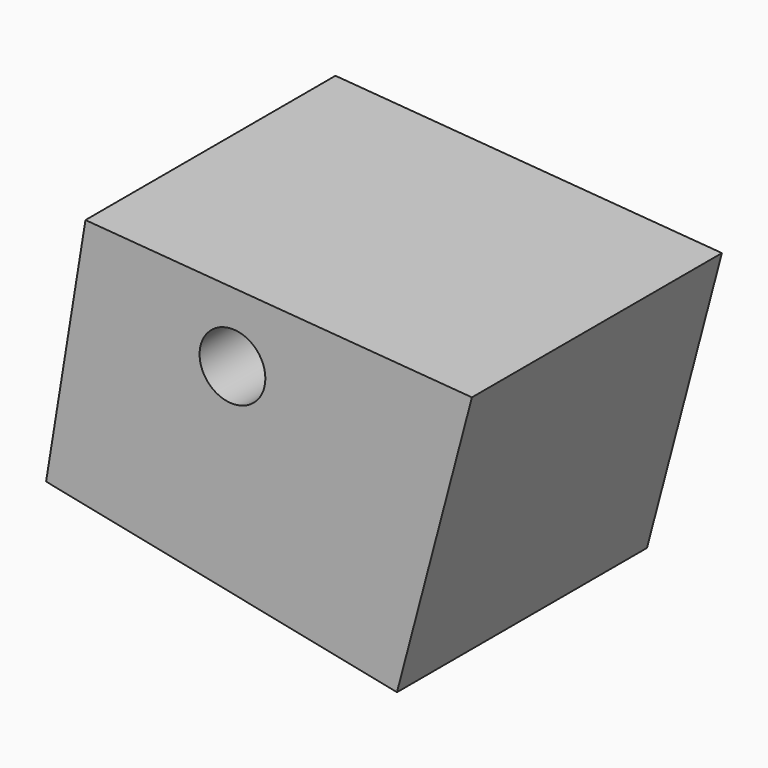
from build123d import *

# Parameters (mm, degrees)
F0_R      = 7.5
F1_DEPTH  = 10
F4_DEPTH  = 1.5
F6_DEPTH  = 2
F8_DEPTH  = 9.8
F10_DEPTH = 25


with BuildPart() as f1:
    # F0 (on Front) → F1 (new body)
    with BuildSketch(Plane.XZ):
        Circle(F0_R)
        with BuildLine():
            ThreePointArc((-0.1283063228, 4.3981288621), (0, 4.4), (0.1283063228, 4.3981288621))
            ThreePointArc((0.1283063228, 4.3981288621), (0.2239147081, 4.4290007991), (0.2785931947, 4.5132878262))
            Line((0.2785931947, 4.5132878262), (0.4192344048, 5.1033676473))
            ThreePointArc((0.4192344048, 5.1033676473), (0.478862258, 5.1912888485), (0.5817691739, 5.2176665885))
            ThreePointArc((0.5817691739, 5.2176665885), (1.0242241906, 5.1491227221), (1.4592299266, 5.0431287929))
            ThreePointArc((1.4592299266, 5.0431287929), (1.5442091959, 4.979378167), (1.565652162, 4.8753309772))
            Line((1.565652162, 4.8753309772), (1.4697739261, 4.276347247))
            ThreePointArc((1.4697739261, 4.276347247), (1.4880350119, 4.1775516368), (1.5645514634, 4.112441941))
            ThreePointArc((1.5645514634, 4.112441941), (1.6838071024, 4.065069943), (1.8016306345, 4.014240533))
            ThreePointArc((1.8016306345, 4.014240533), (1.9017754436, 4.0061747387), (1.9845470271, 4.063121247))
            Line((1.9845470271, 4.063121247), (2.3402963338, 4.5544628552))
            ThreePointArc((2.3402963338, 4.5544628552), (2.429031274, 4.612872862), (2.5341991914, 4.5978619442))
            ThreePointArc((2.5341991914, 4.5978619442), (2.9167437234, 4.3652154646), (3.2780744987, 4.1008203546))
            ThreePointArc((3.2780744987, 4.1008203546), (3.332188798, 4.0094022978), (3.3121823798, 3.9050693608))
            Line((3.3121823798, 3.9050693608), (2.9943812902, 3.3883715646))
            ThreePointArc((2.9943812902, 3.3883715646), (2.9734448904, 3.2901081075), (3.019220472, 3.2006730138))
            ThreePointArc((3.019220472, 3.2006730138), (3.1112698372, 3.1112698372), (3.2006730138, 3.019220472))
            ThreePointArc((3.2006730138, 3.019220472), (3.2901081075, 2.9734448904), (3.3883715646, 2.9943812902))
            Line((3.3883715646, 2.9943812902), (3.9050693608, 3.3121823798))
            ThreePointArc((3.9050693608, 3.3121823798), (4.0094022978, 3.332188798), (4.1008203546, 3.2780744987))
            ThreePointArc((4.1008203546, 3.2780744987), (4.3652154646, 2.9167437234), (4.5978619442, 2.5341991914))
            ThreePointArc((4.5978619442, 2.5341991914), (4.612872862, 2.429031274), (4.5544628552, 2.3402963338))
            Line((4.5544628552, 2.3402963338), (4.063121247, 1.9845470271))
            ThreePointArc((4.063121247, 1.9845470271), (4.0061747387, 1.9017754436), (4.014240533, 1.8016306345))
            ThreePointArc((4.014240533, 1.8016306345), (4.065069943, 1.6838071024), (4.112441941, 1.5645514634))
            ThreePointArc((4.112441941, 1.5645514634), (4.1775516368, 1.4880350119), (4.276347247, 1.4697739261))
            Line((4.276347247, 1.4697739261), (4.8753309772, 1.565652162))
            ThreePointArc((4.8753309772, 1.565652162), (4.979378167, 1.5442091959), (5.0431287929, 1.4592299266))
            ThreePointArc((5.0431287929, 1.4592299266), (5.1491227221, 1.0242241906), (5.2176665885, 0.5817691739))
            ThreePointArc((5.2176665885, 0.5817691739), (5.1912888485, 0.478862258), (5.1033676473, 0.4192344048))
            Line((5.1033676473, 0.4192344048), (4.5132878262, 0.2785931947))
            ThreePointArc((4.5132878262, 0.2785931947), (4.4290007991, 0.2239147081), (4.3981288621, 0.1283063228))
            ThreePointArc((4.3981288621, 0.1283063228), (4.4, 0), (4.3981288621, -0.1283063228))
            ThreePointArc((4.3981288621, -0.1283063228), (4.4290007991, -0.2239147081), (4.5132878262, -0.2785931947))
            Line((4.5132878262, -0.2785931947), (5.1033676473, -0.4192344048))
            ThreePointArc((5.1033676473, -0.4192344048), (5.1912888485, -0.478862258), (5.2176665885, -0.5817691739))
            ThreePointArc((5.2176665885, -0.5817691739), (5.1491227221, -1.0242241906), (5.0431287929, -1.4592299266))
            ThreePointArc((5.0431287929, -1.4592299266), (4.979378167, -1.5442091959), (4.8753309772, -1.565652162))
            Line((4.8753309772, -1.565652162), (4.276347247, -1.4697739261))
            ThreePointArc((4.276347247, -1.4697739261), (4.1775516368, -1.4880350119), (4.112441941, -1.5645514634))
            ThreePointArc((4.112441941, -1.5645514634), (4.065069943, -1.6838071024), (4.014240533, -1.8016306345))
            ThreePointArc((4.014240533, -1.8016306345), (4.0061747387, -1.9017754436), (4.063121247, -1.9845470271))
            Line((4.063121247, -1.9845470271), (4.5544628552, -2.3402963338))
            ThreePointArc((4.5544628552, -2.3402963338), (4.612872862, -2.429031274), (4.5978619442, -2.5341991914))
            ThreePointArc((4.5978619442, -2.5341991914), (4.3652154646, -2.9167437234), (4.1008203546, -3.2780744987))
            ThreePointArc((4.1008203546, -3.2780744987), (4.0094022978, -3.332188798), (3.9050693608, -3.3121823798))
            Line((3.9050693608, -3.3121823798), (3.3883715646, -2.9943812902))
            ThreePointArc((3.3883715646, -2.9943812902), (3.2901081075, -2.9734448904), (3.2006730138, -3.019220472))
            ThreePointArc((3.2006730138, -3.019220472), (3.1112698372, -3.1112698372), (3.019220472, -3.2006730138))
            ThreePointArc((3.019220472, -3.2006730138), (2.9734448904, -3.2901081075), (2.9943812902, -3.3883715646))
            Line((2.9943812902, -3.3883715646), (3.3121823798, -3.9050693608))
            ThreePointArc((3.3121823798, -3.9050693608), (3.332188798, -4.0094022978), (3.2780744987, -4.1008203546))
            ThreePointArc((3.2780744987, -4.1008203546), (2.9167437234, -4.3652154646), (2.5341991914, -4.5978619442))
            ThreePointArc((2.5341991914, -4.5978619442), (2.429031274, -4.612872862), (2.3402963338, -4.5544628552))
            Line((2.3402963338, -4.5544628552), (1.9845470271, -4.063121247))
            ThreePointArc((1.9845470271, -4.063121247), (1.9017754436, -4.0061747387), (1.8016306345, -4.014240533))
            ThreePointArc((1.8016306345, -4.014240533), (1.6838071024, -4.065069943), (1.5645514634, -4.112441941))
            ThreePointArc((1.5645514634, -4.112441941), (1.4880350119, -4.1775516368), (1.4697739261, -4.276347247))
            Line((1.4697739261, -4.276347247), (1.565652162, -4.8753309772))
            ThreePointArc((1.565652162, -4.8753309772), (1.5442091959, -4.979378167), (1.4592299266, -5.0431287929))
            ThreePointArc((1.4592299266, -5.0431287929), (1.0242241906, -5.1491227221), (0.5817691739, -5.2176665885))
            ThreePointArc((0.5817691739, -5.2176665885), (0.478862258, -5.1912888485), (0.4192344048, -5.1033676473))
            Line((0.4192344048, -5.1033676473), (0.2785931947, -4.5132878262))
            ThreePointArc((0.2785931947, -4.5132878262), (0.2239147081, -4.4290007991), (0.1283063228, -4.3981288621))
            ThreePointArc((0.1283063228, -4.3981288621), (0, -4.4), (-0.1283063228, -4.3981288621))
            ThreePointArc((-0.1283063228, -4.3981288621), (-0.2239147081, -4.4290007991), (-0.2785931947, -4.5132878262))
            Line((-0.2785931947, -4.5132878262), (-0.4192344048, -5.1033676473))
            ThreePointArc((-0.4192344048, -5.1033676473), (-0.478862258, -5.1912888485), (-0.5817691739, -5.2176665885))
            ThreePointArc((-0.5817691739, -5.2176665885), (-1.0242241906, -5.1491227221), (-1.4592299266, -5.0431287929))
            ThreePointArc((-1.4592299266, -5.0431287929), (-1.5442091959, -4.979378167), (-1.565652162, -4.8753309772))
            Line((-1.565652162, -4.8753309772), (-1.4697739261, -4.276347247))
            ThreePointArc((-1.4697739261, -4.276347247), (-1.4880350119, -4.1775516368), (-1.5645514634, -4.112441941))
            ThreePointArc((-1.5645514634, -4.112441941), (-1.6838071024, -4.065069943), (-1.8016306345, -4.014240533))
            ThreePointArc((-1.8016306345, -4.014240533), (-1.9017754436, -4.0061747387), (-1.9845470271, -4.063121247))
            Line((-1.9845470271, -4.063121247), (-2.3402963338, -4.5544628552))
            ThreePointArc((-2.3402963338, -4.5544628552), (-2.429031274, -4.612872862), (-2.5341991914, -4.5978619442))
            ThreePointArc((-2.5341991914, -4.5978619442), (-2.9167437234, -4.3652154646), (-3.2780744987, -4.1008203546))
            ThreePointArc((-3.2780744987, -4.1008203546), (-3.332188798, -4.0094022978), (-3.3121823798, -3.9050693608))
            Line((-3.3121823798, -3.9050693608), (-2.9943812902, -3.3883715646))
            ThreePointArc((-2.9943812902, -3.3883715646), (-2.9734448904, -3.2901081075), (-3.019220472, -3.2006730138))
            ThreePointArc((-3.019220472, -3.2006730138), (-3.1112698372, -3.1112698372), (-3.2006730138, -3.019220472))
            ThreePointArc((-3.2006730138, -3.019220472), (-3.2901081075, -2.9734448904), (-3.3883715646, -2.9943812902))
            Line((-3.3883715646, -2.9943812902), (-3.9050693608, -3.3121823798))
            ThreePointArc((-3.9050693608, -3.3121823798), (-4.0094022978, -3.332188798), (-4.1008203546, -3.2780744987))
            ThreePointArc((-4.1008203546, -3.2780744987), (-4.3652154646, -2.9167437234), (-4.5978619442, -2.5341991914))
            ThreePointArc((-4.5978619442, -2.5341991914), (-4.612872862, -2.429031274), (-4.5544628552, -2.3402963338))
            Line((-4.5544628552, -2.3402963338), (-4.063121247, -1.9845470271))
            ThreePointArc((-4.063121247, -1.9845470271), (-4.0061747387, -1.9017754436), (-4.014240533, -1.8016306345))
            ThreePointArc((-4.014240533, -1.8016306345), (-4.065069943, -1.6838071024), (-4.112441941, -1.5645514634))
            ThreePointArc((-4.112441941, -1.5645514634), (-4.1775516368, -1.4880350119), (-4.276347247, -1.4697739261))
            Line((-4.276347247, -1.4697739261), (-4.8753309772, -1.565652162))
            ThreePointArc((-4.8753309772, -1.565652162), (-4.979378167, -1.5442091959), (-5.0431287929, -1.4592299266))
            ThreePointArc((-5.0431287929, -1.4592299266), (-5.1491227221, -1.0242241906), (-5.2176665885, -0.5817691739))
            ThreePointArc((-5.2176665885, -0.5817691739), (-5.1912888485, -0.478862258), (-5.1033676473, -0.4192344048))
            Line((-5.1033676473, -0.4192344048), (-4.5132878262, -0.2785931947))
            ThreePointArc((-4.5132878262, -0.2785931947), (-4.4290007991, -0.2239147081), (-4.3981288621, -0.1283063228))
            ThreePointArc((-4.3981288621, -0.1283063228), (-4.4, 0), (-4.3981288621, 0.1283063228))
            ThreePointArc((-4.3981288621, 0.1283063228), (-4.4290007991, 0.2239147081), (-4.5132878262, 0.2785931947))
            Line((-4.5132878262, 0.2785931947), (-5.1033676473, 0.4192344048))
            ThreePointArc((-5.1033676473, 0.4192344048), (-5.1912888485, 0.478862258), (-5.2176665885, 0.5817691739))
            ThreePointArc((-5.2176665885, 0.5817691739), (-5.1491227221, 1.0242241906), (-5.0431287929, 1.4592299266))
            ThreePointArc((-5.0431287929, 1.4592299266), (-4.979378167, 1.5442091959), (-4.8753309772, 1.565652162))
            Line((-4.8753309772, 1.565652162), (-4.276347247, 1.4697739261))
            ThreePointArc((-4.276347247, 1.4697739261), (-4.1775516368, 1.4880350119), (-4.112441941, 1.5645514634))
            ThreePointArc((-4.112441941, 1.5645514634), (-4.065069943, 1.6838071024), (-4.014240533, 1.8016306345))
            ThreePointArc((-4.014240533, 1.8016306345), (-4.0061747387, 1.9017754436), (-4.063121247, 1.9845470271))
            Line((-4.063121247, 1.9845470271), (-4.5544628552, 2.3402963338))
            ThreePointArc((-4.5544628552, 2.3402963338), (-4.612872862, 2.429031274), (-4.5978619442, 2.5341991914))
            ThreePointArc((-4.5978619442, 2.5341991914), (-4.3652154646, 2.9167437234), (-4.1008203546, 3.2780744987))
            ThreePointArc((-4.1008203546, 3.2780744987), (-4.0094022978, 3.332188798), (-3.9050693608, 3.3121823798))
            Line((-3.9050693608, 3.3121823798), (-3.3883715646, 2.9943812902))
            ThreePointArc((-3.3883715646, 2.9943812902), (-3.2901081075, 2.9734448904), (-3.2006730138, 3.019220472))
            ThreePointArc((-3.2006730138, 3.019220472), (-3.1112698372, 3.1112698372), (-3.019220472, 3.2006730138))
            ThreePointArc((-3.019220472, 3.2006730138), (-2.9734448904, 3.2901081075), (-2.9943812902, 3.3883715646))
            Line((-2.9943812902, 3.3883715646), (-3.3121823798, 3.9050693608))
            ThreePointArc((-3.3121823798, 3.9050693608), (-3.332188798, 4.0094022978), (-3.2780744987, 4.1008203546))
            ThreePointArc((-3.2780744987, 4.1008203546), (-2.9167437234, 4.3652154646), (-2.5341991914, 4.5978619442))
            ThreePointArc((-2.5341991914, 4.5978619442), (-2.429031274, 4.612872862), (-2.3402963338, 4.5544628552))
            Line((-2.3402963338, 4.5544628552), (-1.9845470271, 4.063121247))
            ThreePointArc((-1.9845470271, 4.063121247), (-1.9017754436, 4.0061747387), (-1.8016306345, 4.014240533))
            ThreePointArc((-1.8016306345, 4.014240533), (-1.6838071024, 4.065069943), (-1.5645514634, 4.112441941))
            ThreePointArc((-1.5645514634, 4.112441941), (-1.4880350119, 4.1775516368), (-1.4697739261, 4.276347247))
            Line((-1.4697739261, 4.276347247), (-1.565652162, 4.8753309772))
            ThreePointArc((-1.565652162, 4.8753309772), (-1.5442091959, 4.979378167), (-1.4592299266, 5.0431287929))
            ThreePointArc((-1.4592299266, 5.0431287929), (-1.0242241906, 5.1491227221), (-0.5817691739, 5.2176665885))
            ThreePointArc((-0.5817691739, 5.2176665885), (-0.478862258, 5.1912888485), (-0.4192344048, 5.1033676473))
            Line((-0.4192344048, 5.1033676473), (-0.2785931947, 4.5132878262))
            ThreePointArc((-0.2785931947, 4.5132878262), (-0.2239147081, 4.4290007991), (-0.1283063228, 4.3981288621))
        make_face(mode=Mode.SUBTRACT)
    extrude(amount=F1_DEPTH)


with BuildPart() as f4:
    # F2 (on face) → F4 (new body)
    with BuildSketch(Plane.XZ.offset(10)):
        with BuildLine():
            ThreePointArc((69.4686499737, -28.2852508226), (71.1676063573, -27.3155576924), (72.3805656575, -28.8503173792))
            Line((72.3805656575, -28.8503173792), (76.6659975052, -29.6819191426))
            Line((76.6659975052, -29.6819191426), (75.6182499343, -35.0811991898))
            Line((75.6182499343, -35.0811991898), (63.4294299308, -32.7159196639))
            Line((63.4294299308, -32.7159196639), (62.9485293155, -35.6833715753))
            Line((62.9485293155, -35.6833715753), (77.882968734, -38.7218176156))
            Line((77.882968734, -38.7218176156), (81.0739637004, -26.6341569648))
            Line((81.0739637004, -26.6341569648), (64.6248276938, -25.3395818853))
            Line((64.6248276938, -25.3395818853), (64.3096957687, -27.2841392505))
            Line((64.3096957687, -27.2841392505), (69.4686499737, -28.2852508226))
        make_face()
    extrude(amount=F4_DEPTH)

    # F5 (on face) → F6 (join)
    with BuildSketch(Plane(origin=(0, -10, 0), x_dir=(-1, 0, 0), z_dir=(0, 1, 0))):
        Polygon((-62.9485293155, -35.6833715753), (-64.6248276938, -25.3395818853), (-81.0739637004, -26.6341569648), (-77.882968734, -38.7218176156), align=None)
    extrude(amount=F6_DEPTH)

    # F7 (on face) → F8 (join)
    with BuildSketch(Plane.XZ.offset(11.5)):
        Polygon((77.882968734, -38.7218176156), (81.0739637004, -26.6341569648), (64.6248276938, -25.3395818853), (62.9485293155, -35.6833715753), align=None)
    extrude(amount=F8_DEPTH)

    # F9 (on Front) → F10 (cut)
    with BuildSketch(Plane.XZ):
        with BuildLine():
            ThreePointArc((69.48186, -28.78809), (70.88186, -30.18809), (72.28186, -28.78809))
            ThreePointArc((72.28186, -28.78809), (70.88186, -27.38809), (69.48186, -28.78809))
        make_face()
    extrude(amount=F10_DEPTH, mode=Mode.SUBTRACT)


solid = f4.part
